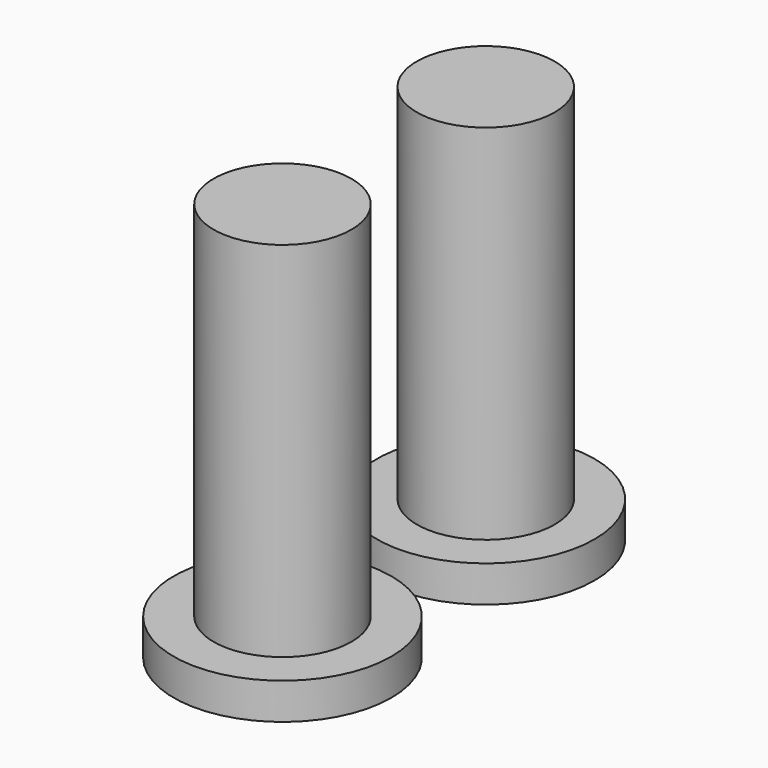
from build123d import *

# Parameters (mm, degrees)
F0_R     = 4.826
F1_DEPTH = 25.4
F2_R     = 7.62
F2_R_2   = 4.826
F3_DEPTH = 2.54
F7_ANGLE = 180


with BuildPart() as f1:
    # F0 (on Top) → F1 (new body)
    with BuildSketch(Plane.XY):
        Circle(F0_R)
    extrude(amount=F1_DEPTH)

    # F2 (on face) → F3 (join)
    with BuildSketch(Plane.XY.offset(25.4)):
        Circle(F2_R)
        Circle(F2_R_2, mode=Mode.SUBTRACT)
        Circle(F2_R_2)
    extrude(amount=F3_DEPTH)


with BuildPart() as f4_1:
    # F4: copy of F1
    add(f1.part)


with BuildPart() as f1_1:
    # F5: moved
    add(f1.part.moved(Location((0, 17.78, 0))))


with BuildPart() as f1_2:
    # F7: moved
    add(f1_1.part.rotate(Axis((9.2233559117, 0, 0), (1, 0, 0)), F7_ANGLE))


with BuildPart() as f4_1_1:
    # F7: moved
    add(f4_1.part.rotate(Axis((9.2233559117, 0, 0), (1, 0, 0)), F7_ANGLE))


solid = Compound([f1_2.part, f4_1_1.part])
